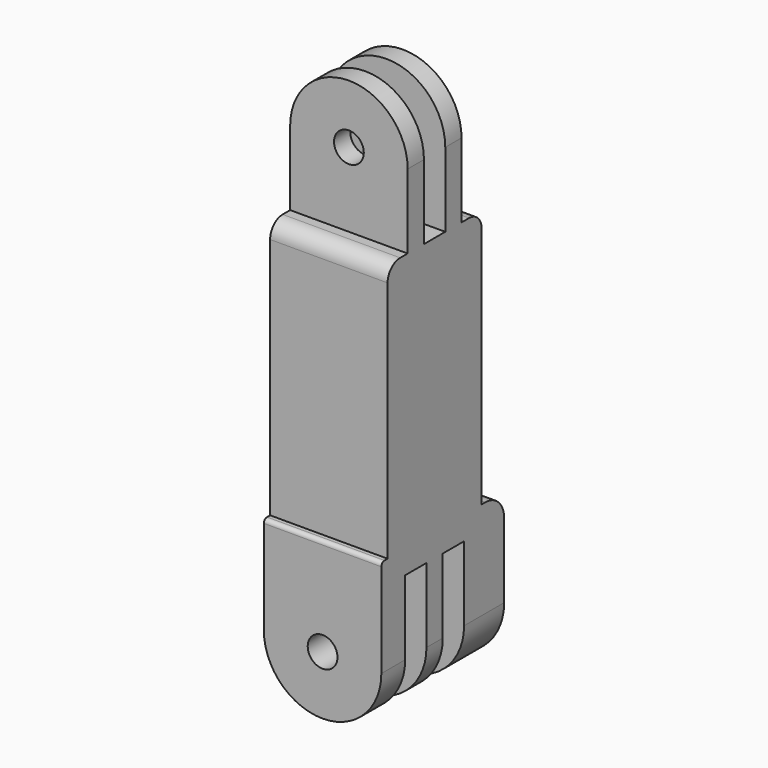
from build123d import *

# Parameters (mm, degrees)
CYLINDER004_R             = 1.9
CYLINDER004_DEPTH         = 15
BOX005_W                  = 15
BOX005_H                  = 3.4
BOX005_DEPTH              = 17
ARRAY001_Y_COUNT          = 3
ARRAY001_Y_PITCH          = 6
CYLINDER003_R             = 7.5
CYLINDER003_DEPTH         = 15
BOX004_W                  = 15
BOX004_H                  = 15
BOX004_DEPTH              = 12.5
BOX003_W                  = 15
BOX003_H                  = 3.4
BOX003_DEPTH              = 17
ARRAY_Y_COUNT             = 2
ARRAY_Y_PITCH             = 6
CYLINDER002_R             = 2.2
CYLINDER002_DEPTH         = 6
CYLINDER001_R             = 1.9
CYLINDER001_DEPTH         = 15
FUSION001_PLACEMENT_ANGLE = 90
CYLINDER_R                = 7.5
CYLINDER_DEPTH            = 19.6
BOX002_W                  = 15
BOX002_H                  = 19.6
BOX002_DEPTH              = 12.5
BODY009_PLACEMENT_ANGLE   = 180
BOX012_W                  = 15
BOX012_H                  = 15
BOX012_DEPTH              = 30
FILLET003_1_R             = 3
FILLET003_2_R             = 2
FILLET003_3_R             = 0.5


with BuildPart() as side_2_bolt_hole:
    # Cylinder004 → Cylinder004 (new body)
    with BuildSketch(Plane(origin=(0, 7.5, 12.5), x_dir=(1, 0, 0), z_dir=(0, -1, 0))):
        Circle(CYLINDER004_R)
    extrude(amount=CYLINDER004_DEPTH)


with BuildPart() as side_2_extract_fusion:
    # Box005 → Box005 (new body)
    with BuildSketch(Plane(origin=(-7.5, -7.7, 3), x_dir=(1, 0, 0), z_dir=(0, 0, 1))):
        with Locations((7.5, 1.7)):
            Rectangle(BOX005_W, BOX005_H)
    extrude(amount=BOX005_DEPTH)

    # Array001 Y: side 2 extract fusion ×3


with BuildPart() as side_2_extract_fusion_1:
    add(side_2_extract_fusion.part)
    with Locations(*[(0, i * ARRAY001_Y_PITCH, 0) for i in range(1, ARRAY001_Y_COUNT)]):
        add(side_2_extract_fusion.part)

    # Fusion004: union side 2 bolt hole
    add(side_2_bolt_hole.part)


with BuildPart() as outer_cylinder001:
    # Cylinder003 → Cylinder003 (new body)
    with BuildSketch(Plane(origin=(0, 7.5, 12.5), x_dir=(1, 0, 0), z_dir=(0, -1, 0))):
        Circle(CYLINDER003_R)
    extrude(amount=CYLINDER003_DEPTH)


with BuildPart() as side_2_cut_clone003:
    # Box004 → Box004 (new body)
    with BuildSketch(Plane(origin=(-7.5, -7.5, 0), x_dir=(1, 0, 0), z_dir=(0, 0, 1))):
        with Locations((7.5, 7.5)):
            Rectangle(BOX004_W, BOX004_H)
    extrude(amount=BOX004_DEPTH)

    # Fusion003: union outer cylinder001
    add(outer_cylinder001.part)

    # Cut001: cut side 2 extract fusion
    add(side_2_extract_fusion_1.part, mode=Mode.SUBTRACT)


with BuildPart() as side_2_cut_clone003_1:
    # Body008 placement: moved
    add(side_2_cut_clone003.part.moved(Location((0, 0, 30))))


with BuildPart() as side_3_extract_cube_array:
    # Box003 → Box003 (new body)
    with BuildSketch(Plane(origin=(-7.5, -7.7, 3), x_dir=(1, 0, 0), z_dir=(0, 0, 1))):
        with Locations((7.5, 1.7)):
            Rectangle(BOX003_W, BOX003_H)
    extrude(amount=BOX003_DEPTH)

    # Array Y: side 3 extract cube array ×2


with BuildPart() as side_3_extract_cube_array_1:
    add(side_3_extract_cube_array.part)
    with Locations(*[(0, i * ARRAY_Y_PITCH, 0) for i in range(1, ARRAY_Y_COUNT)]):
        add(side_3_extract_cube_array.part)


with BuildPart() as side_3_extract_cube_array_2:
    # Array placement: moved
    add(side_3_extract_cube_array_1.part.moved(Location((0, 3, 0))))


with BuildPart() as insert_hole:
    # Cylinder002 → Cylinder002 (new body)
    with BuildSketch(Plane.XY):
        Circle(CYLINDER002_R)
    extrude(amount=CYLINDER002_DEPTH)


with BuildPart() as side_3_extract_fusion:
    # Cylinder001 → Cylinder001 (new body)
    with BuildSketch(Plane.XY.offset(6)):
        Circle(CYLINDER001_R)
    extrude(amount=CYLINDER001_DEPTH)

    # Fusion001: union insert hole
    add(insert_hole.part)


with BuildPart() as side_3_extract_fusion_1:
    # Fusion001 placement: moved
    add(side_3_extract_fusion.part.moved(Location((0, 11.1, 12.5))).rotate(Axis((0, 11.1, 12.5), (1, 0, 0)), FUSION001_PLACEMENT_ANGLE))

    # Fusion002: union side 3 extract cube array
    add(side_3_extract_cube_array_2.part)


with BuildPart() as outer_cylinder:
    # Cylinder → Cylinder (new body)
    with BuildSketch(Plane(origin=(0, 11.1, 12.5), x_dir=(1, 0, 0), z_dir=(0, -1, 0))):
        Circle(CYLINDER_R)
    extrude(amount=CYLINDER_DEPTH)


with BuildPart() as side_3_cut_clone003:
    # Box002 → Box002 (new body)
    with BuildSketch(Plane(origin=(-7.5, -8.5, 0), x_dir=(1, 0, 0), z_dir=(0, 0, 1))):
        with Locations((7.5, 9.8)):
            Rectangle(BOX002_W, BOX002_H)
    extrude(amount=BOX002_DEPTH)

    # Fusion: union outer cylinder
    add(outer_cylinder.part)

    # Cut: cut side 3 extract fusion
    add(side_3_extract_fusion_1.part, mode=Mode.SUBTRACT)


with BuildPart() as side_3_cut_clone003_1:
    # Body009 placement: moved
    add(side_3_cut_clone003.part.rotate(Axis((0, 0, 0), (0, 1, 0)), BODY009_PLACEMENT_ANGLE))


with BuildPart() as obj1:
    # Box012 → Box012 (new body)
    with BuildSketch(Plane(origin=(-7.5, -7.5, 0), x_dir=(1, 0, 0), z_dir=(0, 0, 1))):
        with Locations((7.5, 7.5)):
            Rectangle(BOX012_W, BOX012_H)
    extrude(amount=BOX012_DEPTH)

    # Fusion010: union side 2 cut clone003, side 3 cut clone003
    add(side_2_cut_clone003_1.part)
    add(side_3_cut_clone003_1.part)

    # Fillet003 1
    fillet003_1_edges = [obj1.edges().sort_by_distance(p)[0] for p in [
        (0, 11.1, 0),
    ]]
    fillet(fillet003_1_edges, radius=FILLET003_1_R)

    # Fillet003 2
    fillet003_2_edges = [obj1.edges().sort_by_distance(p)[0] for p in [
        (0, -7.5, 33),
        (0, 7.5, 33),
    ]]
    fillet(fillet003_2_edges, radius=FILLET003_2_R)

    # Fillet003 3
    fillet003_3_edges = [obj1.edges().sort_by_distance(p)[0] for p in [
        (0, -8.5, 0),
    ]]
    fillet(fillet003_3_edges, radius=FILLET003_3_R)


solid = obj1.part
